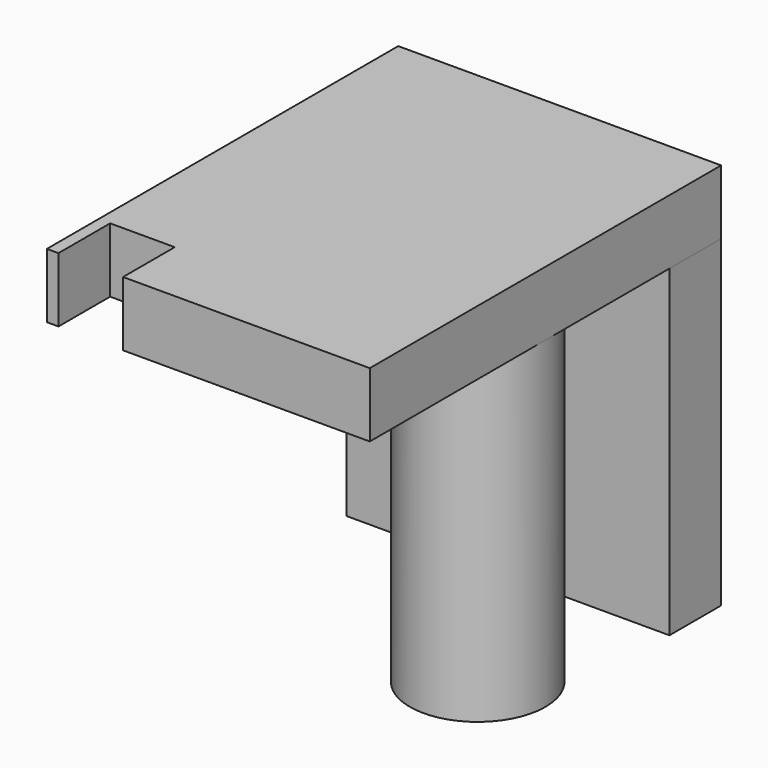
from build123d import *

# Parameters (mm, degrees)
F0_R     = 2.667
F0_W     = 12.7
F0_H     = 2.54
F1_DEPTH = 12.7
F3_DEPTH = 2.54


with BuildPart() as f1:
    # F0 (on Top) → F1 (new body)
    with BuildSketch(Plane.XY):
        Circle(F0_R)
        with Locations((-3.683, 7.366)):
            Rectangle(F0_W, F0_H)
    extrude(amount=-F1_DEPTH)


with BuildPart() as f3:
    # F2 (on Top) → F3 (new body)
    with BuildSketch(Plane.XY):
        Polygon((2.667, -8.636), (2.667, 8.636), (-10.033, 8.636), (-10.033, -8.636), (-9.57749, -8.636), (-9.57749, -6.096), (-7.03749, -6.096), (-7.03749, -8.636), align=None)
    extrude(amount=F3_DEPTH)


solid = Compound([f1.part, f3.part])
